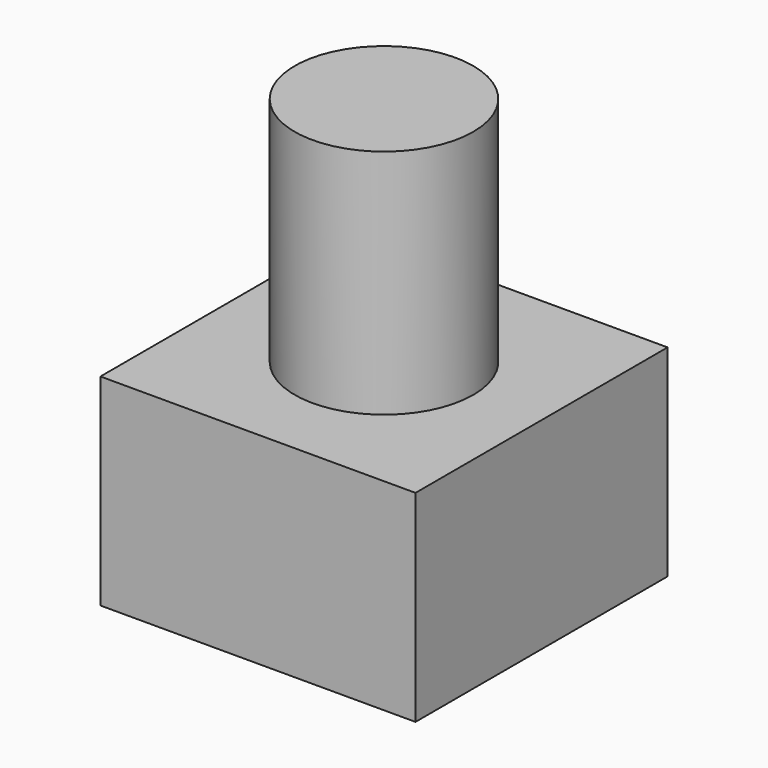
from build123d import *

# Parameters (mm, degrees)
F0_W     = 6
F0_H     = 6
F0_R     = 1.7
F1_DEPTH = 3.84
F2_DEPTH = 8.25


with BuildPart() as f1:
    # F0 (on Top) → F1 (new body)
    with BuildSketch(Plane.XY):
        with Locations((-16.371386, -0.344351)):
            Rectangle(F0_W, F0_H)
        with Locations((-16.371386, -0.344351)):
            Circle(F0_R, mode=Mode.SUBTRACT)
        with Locations((-16.371386, -0.344351)):
            Circle(F0_R)
    extrude(amount=F1_DEPTH)

    # F0 (on Top) → F2 (join)
    with BuildSketch(Plane.XY):
        with Locations((-16.371386, -0.344351)):
            Circle(F0_R)
    extrude(amount=F2_DEPTH)


solid = f1.part
